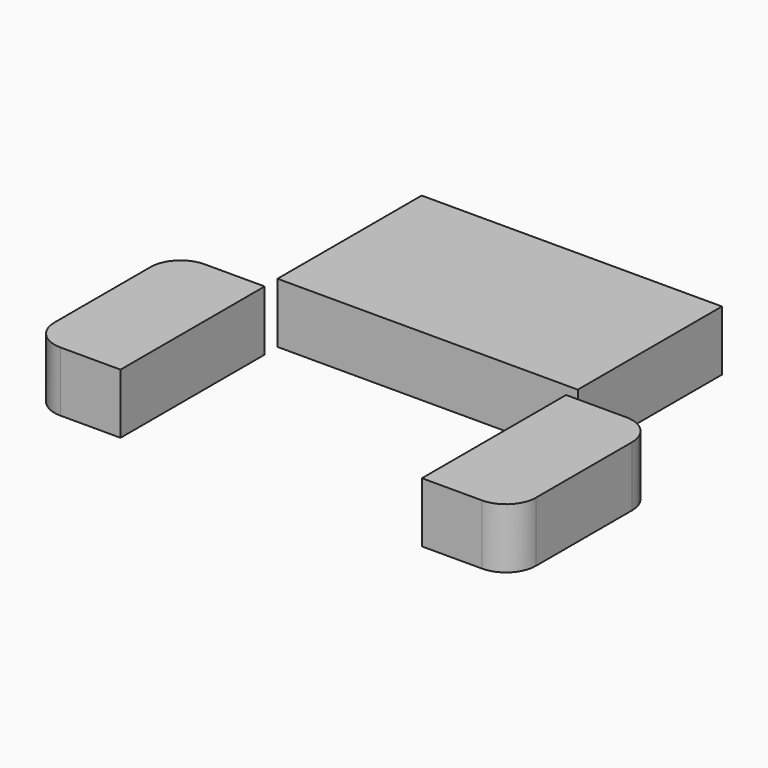
from build123d import *

# Parameters (mm, degrees)
F1_W     = 127
F1_H     = 76.2
F4_DEPTH = 25.4
F5_DEPTH = 25.4
F6_DEPTH = 25.4


with BuildPart() as f4:
    # F1 (on face) → F4 (new body)
    with BuildSketch(Plane.XY):
        with Locations((93.632553, 131.953824)):
            Rectangle(F1_W, F1_H)
    extrude(amount=-F4_DEPTH)


with BuildPart() as f5:
    # F3 (on face) → F5 (new body)
    with BuildSketch(Plane.XY):
        with BuildLine():
            Line((181.90471, 88.439508), (156.50471, 88.439508))
            Line((156.50471, 88.439508), (156.50471, 12.239508))
            Line((156.50471, 12.239508), (181.90471, 12.239508))
            ThreePointArc((181.90471, 12.239508), (190.884966, 15.959252), (194.60471, 24.939508))
            Line((194.60471, 24.939508), (194.60471, 75.739508))
            ThreePointArc((194.60471, 75.739508), (190.884966, 84.719764), (181.90471, 88.439508))
        make_face()
    extrude(amount=-F5_DEPTH)


with BuildPart() as f6:
    # F2 (on face) → F6 (new body)
    with BuildSketch(Plane.XY):
        with BuildLine():
            Line((30.262375, 86.895682), (4.862375, 86.895682))
            ThreePointArc((4.862375, 86.895682), (-4.117881, 83.175939), (-7.837625, 74.195682))
            Line((-7.837625, 74.195682), (-7.837625, 23.395682))
            ThreePointArc((-7.837625, 23.395682), (-4.117881, 14.415426), (4.862375, 10.695682))
            Line((4.862375, 10.695682), (30.262375, 10.695682))
            Line((30.262375, 10.695682), (30.262375, 86.895682))
        make_face()
    extrude(amount=-F6_DEPTH)


solid = Compound([f4.part, f5.part, f6.part])
